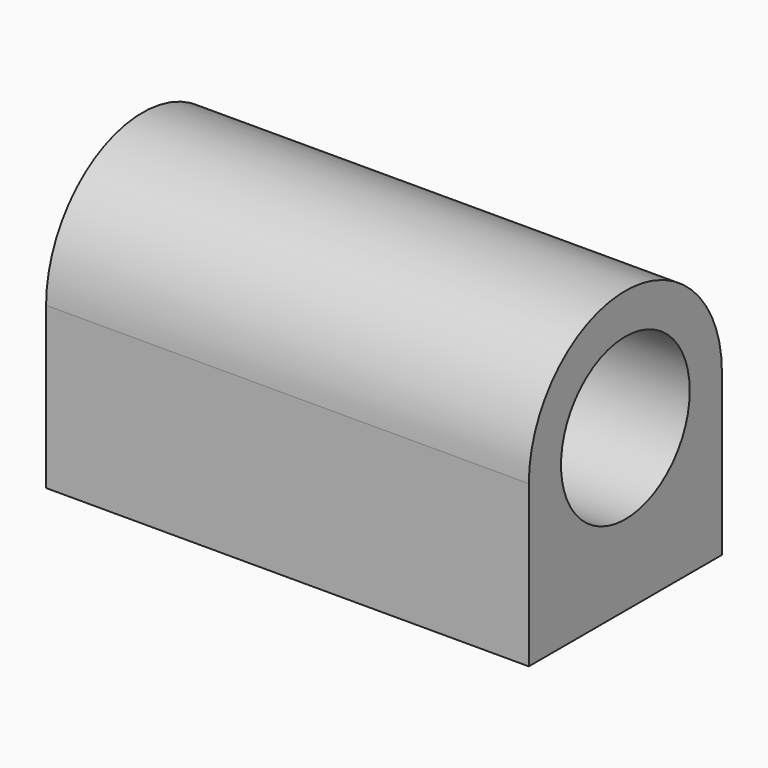
from build123d import *

# Parameters (mm, degrees)
F0_R     = 12.7
F1_DEPTH = 76.2
F2_R     = 1.651
F3_DEPTH = 12.7


with BuildPart() as f1:
    # F0 (on Right) → F1 (new body)
    with BuildSketch(Plane.YZ):
        with BuildLine():
            Line((-19.05, 12.7), (-19.05, -12.7))
            Line((-19.05, -12.7), (19.05, -12.7))
            Line((19.05, -12.7), (19.05, 12.7))
            ThreePointArc((19.05, 12.7), (0, 31.75), (-19.05, 12.7))
        make_face()
        with Locations((0, 12.7)):
            Circle(F0_R, mode=Mode.SUBTRACT)
    extrude(amount=F1_DEPTH)

    # F2 (on face) → F3 (cut)
    with BuildSketch(Plane(origin=(0, 0, -12.7), x_dir=(1, 0, 0), z_dir=(0, 0, -1))):
        with Locations((6.35, 12.7)):
            Circle(F2_R)
        with Locations((6.35, -12.7)):
            Circle(F2_R)
        with Locations((69.85, -12.7)):
            Circle(F2_R)
        with Locations((69.85, 12.7)):
            Circle(F2_R)
    extrude(amount=-F3_DEPTH, mode=Mode.SUBTRACT)


solid = f1.part
